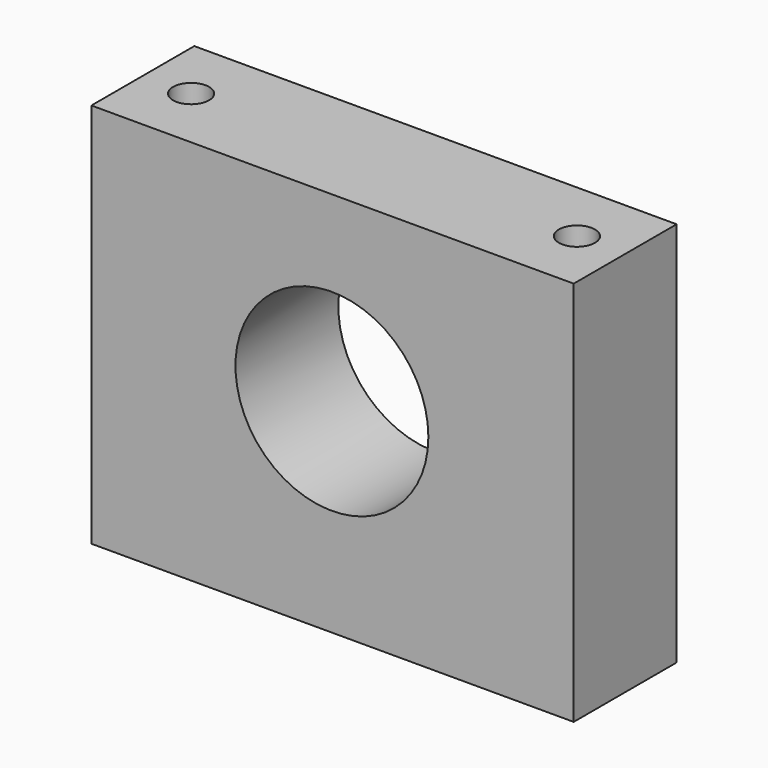
from build123d import *

# Parameters (mm, degrees)
F0_W     = 95.25
F0_H     = 76.2
F0_R     = 19.05
F1_DEPTH = 25.4
F2_R     = 3.5687
F3_DEPTH = 76.201


with BuildPart() as f1:
    # F0 (on Front) → F1 (new body)
    with BuildSketch(Plane.XZ):
        with Locations((0.127, -2.107748)):
            Rectangle(F0_W, F0_H)
        Circle(F0_R, mode=Mode.SUBTRACT)
    extrude(amount=F1_DEPTH)

    # F2 (on face) → F3 (cut, through all)
    with BuildSketch(Plane.XY.offset(35.992252)):
        with Locations((-37.973, -12.7)):
            Circle(F2_R)
        with Locations((38.227, -12.7)):
            Circle(F2_R)
    extrude(amount=-F3_DEPTH, mode=Mode.SUBTRACT)


solid = f1.part
